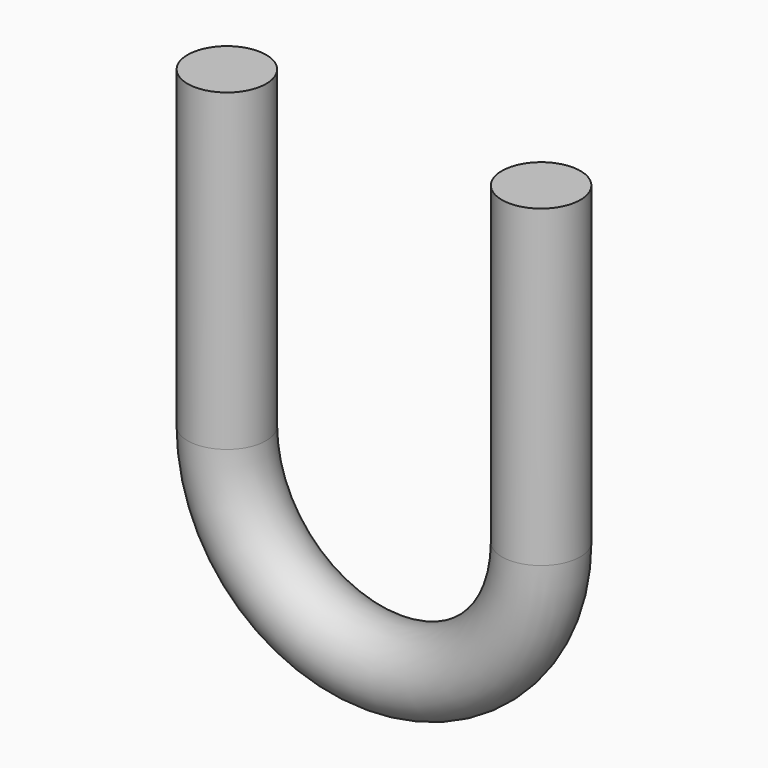
from build123d import *

# Parameters (mm, degrees)
F2_R = 1.875


with BuildPart() as f3:
    # F3: sweep along a path in F0
    with BuildLine(Plane.XZ) as f3_path:
        Line((-15, 0), (-15, -15))
        ThreePointArc((-15, -15), (-7.5, -22.5), (0, -15))
        Line((0, -15), (0, 0))
    # F2 (on face) → F3 (sweep)
    with BuildSketch(Plane(origin=(0, 0, 0), x_dir=(1, 0, 0), z_dir=(0, 0, -1))):
        with Locations((-15, 0)):
            Circle(F2_R)
    sweep(path=f3_path.line)


solid = f3.part
